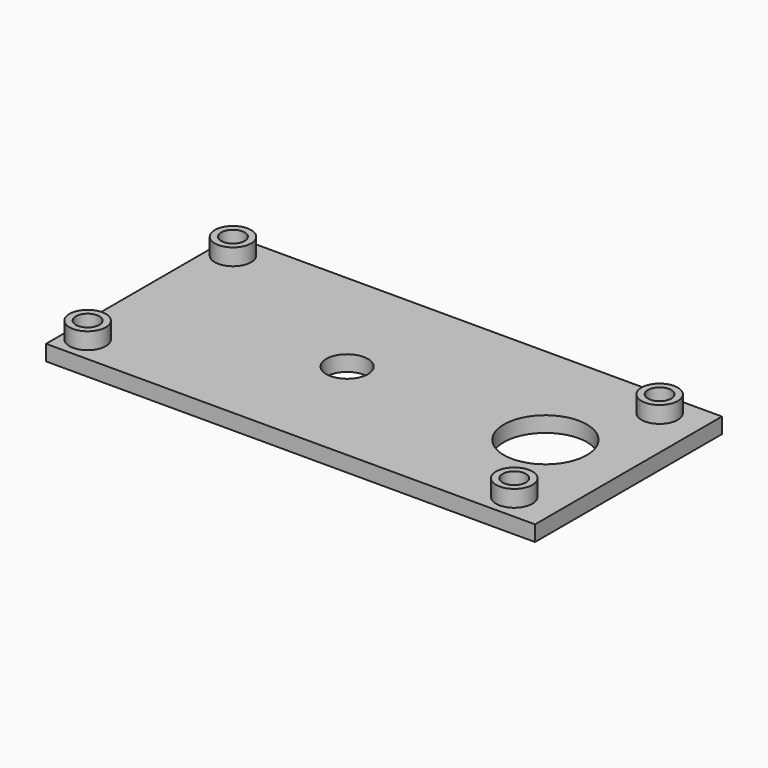
from build123d import *

# Parameters (mm, degrees)
F0_R     = 3.5
F0_R_2   = 4
F0_R_3   = 2.25
F1_DEPTH = 3
F2_DEPTH = 3.2


with BuildPart() as f1:
    # F0 (on Top) → F1 (new body)
    with BuildSketch(Plane.XY):
        Polygon((-1.795, -22.5), (-1.795, 9.1e-09), (-1.795, 22.5), (-71.98, 22.5), (-71.98, -22.5), align=None)
        with Locations((-67.98, -17.5)):
            Circle(F0_R, mode=Mode.SUBTRACT)
        with Locations((-31.99, 0)):
            Circle(F0_R_2, mode=Mode.SUBTRACT)
        with Locations((-67.98, 17.5)):
            Circle(F0_R, mode=Mode.SUBTRACT)
        Polygon((-1.795, 22.5), (-1.795, 9.1e-09), (-1.795, -22.5), (22.205, -22.5), (22.205, 22.5), align=None)
        with Locations((14.205, -17.5)):
            Circle(F0_R, mode=Mode.SUBTRACT)
        with BuildLine():
            ThreePointArc((-1.795, 9.1e-09), (6.2050000046, 8), (14.205, 0))
            ThreePointArc((14.205, 0), (6.2049999954, -8), (-1.795, 9.1e-09))
        make_face(mode=Mode.SUBTRACT)
        with Locations((14.205, 17.5)):
            Circle(F0_R, mode=Mode.SUBTRACT)
        with Locations((-67.98, 17.5)):
            Circle(F0_R)
        with Locations((-67.98, 17.5)):
            Circle(F0_R_3, mode=Mode.SUBTRACT)
        with Locations((-67.98, -17.5)):
            Circle(F0_R)
        with Locations((-67.98, -17.5)):
            Circle(F0_R_3, mode=Mode.SUBTRACT)
        with Locations((14.205, -17.5)):
            Circle(F0_R)
        with Locations((14.205, -17.5)):
            Circle(F0_R_3, mode=Mode.SUBTRACT)
        with Locations((14.205, 17.5)):
            Circle(F0_R)
        with Locations((14.205, 17.5)):
            Circle(F0_R_3, mode=Mode.SUBTRACT)
    extrude(amount=-F1_DEPTH)

    # F0 (on Top) → F2 (join)
    with BuildSketch(Plane.XY):
        with Locations((-67.98, 17.5)):
            Circle(F0_R)
        with Locations((-67.98, 17.5)):
            Circle(F0_R_3, mode=Mode.SUBTRACT)
        with Locations((-67.98, -17.5)):
            Circle(F0_R)
        with Locations((-67.98, -17.5)):
            Circle(F0_R_3, mode=Mode.SUBTRACT)
        with Locations((14.205, -17.5)):
            Circle(F0_R)
        with Locations((14.205, -17.5)):
            Circle(F0_R_3, mode=Mode.SUBTRACT)
        with Locations((14.205, 17.5)):
            Circle(F0_R)
        with Locations((14.205, 17.5)):
            Circle(F0_R_3, mode=Mode.SUBTRACT)
    extrude(amount=F2_DEPTH)


solid = f1.part
